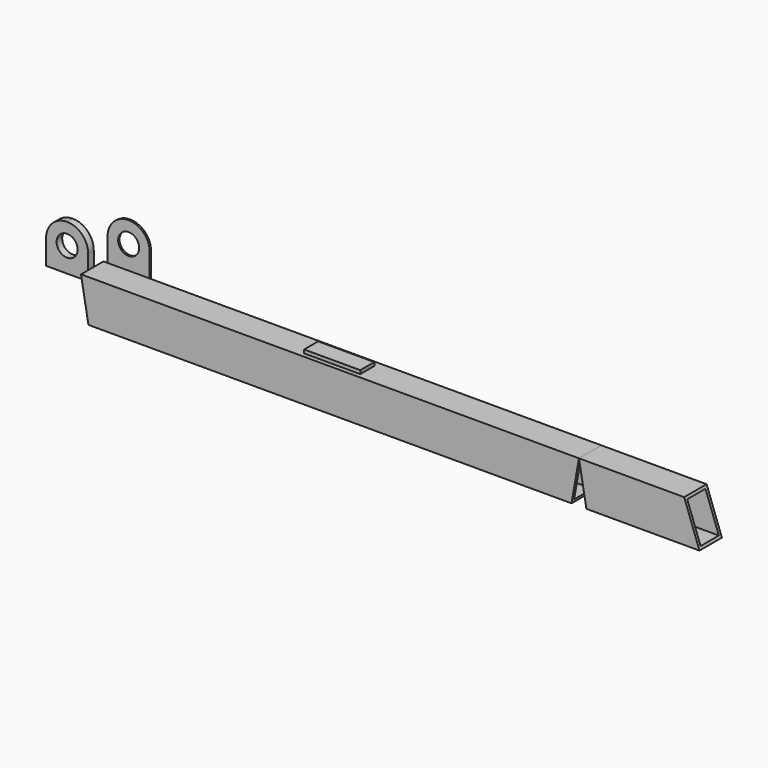
from build123d import *

# Parameters (mm, degrees)
F0_R      = 38.1
F1_DEPTH  = 6.35
F2_R      = 38.1
F3_DEPTH  = 25.4
F4_W      = 101.6
F4_H      = 152.4
F4_W_2    = 82.55
F4_H_2    = 133.35
F5_DEPTH  = 1803.4
F6_DEPTH  = 508
F8_DEPTH  = 222.0496700535
F10_DEPTH = 222.0496700535
F11_W     = 203.2
F11_H     = 63.5
F12_DEPTH = 12.7


with BuildPart() as f1:
    # F0 (on Front) → F1 (new body)
    with BuildSketch(Plane.XZ):
        with BuildLine():
            Line((-76.2, -152.4), (76.2, -152.4))
            Line((76.2, -152.4), (76.2, 76.2))
            ThreePointArc((76.2, 76.2), (53.8815367264, 130.0815367264), (0, 152.4))
            ThreePointArc((0, 152.4), (-53.8815367264, 130.0815367264), (-76.2, 76.2))
            Line((-76.2, 76.2), (-76.2, -152.4))
        make_face()
        with Locations((0, 76.2)):
            Circle(F0_R, mode=Mode.SUBTRACT)
    extrude(amount=F1_DEPTH)


with BuildPart() as f3:
    # F2 (on Front) → F3 (new body)
    with BuildSketch(Plane.XZ):
        with BuildLine():
            Line((-283.7868928909, -77.7770355344), (-131.3868928909, -77.7770355344))
            Line((-131.3868928909, -77.7770355344), (-131.3868928909, 11.1229644656))
            ThreePointArc((-131.3868928909, 11.1229644656), (-153.7053561645, 65.004501192), (-207.5868928909, 87.3229644656))
            ThreePointArc((-207.5868928909, 87.3229644656), (-261.4684296173, 65.004501192), (-283.7868928909, 11.1229644656))
            Line((-283.7868928909, 11.1229644656), (-283.7868928909, -77.7770355344))
        make_face()
        with Locations((-207.5868928909, 11.1229644656)):
            Circle(F2_R, mode=Mode.SUBTRACT)
    extrude(amount=F3_DEPTH)


with BuildPart() as f5:
    # F4 (on Right) → F5 (new body)
    with BuildSketch(Plane.YZ):
        with Locations((-171.2486700535, -8.8574821234)):
            Rectangle(F4_W, F4_H)
        with Locations((-171.2486700535, -8.8574821234)):
            Rectangle(F4_W_2, F4_H_2, mode=Mode.SUBTRACT)
    extrude(amount=F5_DEPTH)


with BuildPart() as f6:
    # F6 (new): a face of the model
    f6_faces = [f5.part.faces().sort_by_distance(p)[0] for p in [
        (1803.4, -220.2170500055, -8.8574821234),
    ]]
    extrude(f6_faces, amount=F6_DEPTH)

    # F7 (on face) → F8 (cut, through all)
    with BuildSketch(Plane.XZ.offset(222.0486700535)):
        Polygon((1830.27223186, -85.0574821234), (1803.4, 67.3425178766), (1803.4, -85.0574821234), align=None)
        Polygon((2311.4, 67.3425178766), (2184.4, 67.3425178766), (2239.8690637022, -85.0574821234), (2311.4, -85.0574821234), align=None)
    extrude(amount=-F8_DEPTH, mode=Mode.SUBTRACT)


with BuildPart() as f5_1:
    add(f5.part)

    # F9 (on face) → F10 (cut, through all)
    with BuildSketch(Plane.XZ.offset(222.0486700535)):
        Polygon((26.87223186, -85.0574821234), (0, 67.3425178766), (0, -85.0574821234), align=None)
        Polygon((1803.4, -85.0574821234), (1803.4, 67.3425178766), (1776.52776814, -85.0574821234), align=None)
    extrude(amount=-F10_DEPTH, mode=Mode.SUBTRACT)


with BuildPart() as f12:
    # F11 (on face) → F12 (new body)
    with BuildSketch(Plane.XY.offset(67.3425178766)):
        with Locations((896.9457658768, -174.3025566339)):
            Rectangle(F11_W, F11_H)
    extrude(amount=F12_DEPTH)


solid = Compound([f1.part, f3.part, f6.part, f5_1.part, f12.part])
